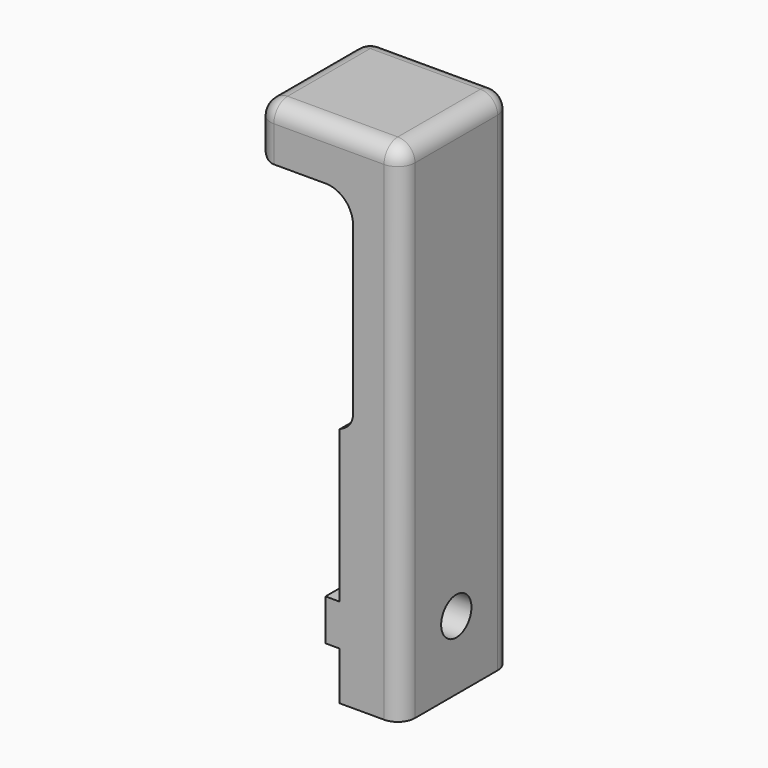
from build123d import *

# Parameters (mm, degrees)
PAD063_DEPTH         = 10
SKETCH257_R          = 2.75
POCKET173_DEPTH      = 12.001
POCKET173_DEPTH_BACK = 9.001
FILLET011_R          = 2.5


with BuildPart() as part:
    # Sketch256 → Pad063 (new body, symmetric)
    with BuildSketch(Plane.XZ):
        Polygon((-12, 8.5), (9, 8.5), (9, -65), (0, -65), (0, -58), (-2, -58), (-2, -52), (0, -52), (0, -30), (2, -28.831445), (2, -3.5), (-2, 0.5), (-12, 0.5), align=None)
    extrude(amount=PAD063_DEPTH, both=True)

    # Sketch258 → Groove007 (revolve, cut)
    with BuildSketch(Plane.XZ):
        with BuildLine():
            Line((-12, 0.5), (-12, -8.5))
            Line((-12, -8.5), (2, -8.5))
            Line((2, -3.5), (2, -8.5))
            ThreePointArc((2, -3.5), (0.828427, -0.671573), (-2, 0.5))
            Line((-12, 0.5), (-2, 0.5))
        make_face()
    revolve(axis=Axis((0, 0, 165.5), (1, 0, 0)), mode=Mode.SUBTRACT)

    # Sketch257 → Pocket173 (cut, two sides)
    with BuildSketch(Plane.YZ) as pocket173_sk:
        with Locations((0, -55)):
            Circle(SKETCH257_R)
    extrude(amount=-POCKET173_DEPTH, mode=Mode.SUBTRACT)
    extrude(pocket173_sk.sketch, amount=POCKET173_DEPTH_BACK, mode=Mode.SUBTRACT)

    # Fillet011
    fillet011_edges = [part.edges().sort_by_distance(p)[0] for p in [
        (-12, -5.002299, 0.575845),
        (-12, 5.002299, 0.575845),
        (-12, 10, 4.651655),
        (-12, -10, 4.651655),
        (-12, 0, 8.5),
        (-1.5, -10, 8.5),
        (-1.5, 10, 8.5),
        (9, 0, 8.5),
        (9, 10, -28.25),
        (9, -10, -28.25),
        (2, 0, -28.831445),
    ]]
    fillet(fillet011_edges, radius=FILLET011_R)


with BuildPart() as part_1:
    # Body022056 placement: moved
    add(part.part.moved(Location((137, 0, -82))))


solid = part_1.part
